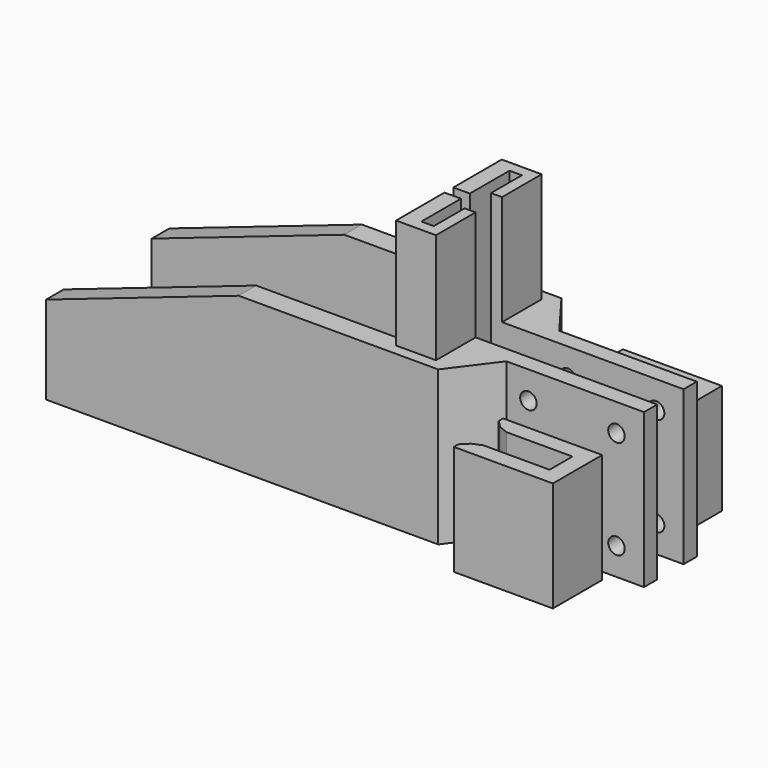
from build123d import *

# Parameters (mm, degrees)
F1_DEPTH  = 3
F3_DEPTH  = 25
F5_R      = 2.6
F6_DEPTH  = 3
F7_R      = 1.5
F8_DEPTH  = 3
F10_DEPTH = 4
F12_DEPTH = 20
F15_DEPTH = 20
F16_SIZE  = 2
F17_SIZE  = 1


with BuildPart() as f1:
    # F0 (on Top) → F1 (new body)
    with BuildSketch(Plane.XY):
        Polygon((0, 0), (0, -7), (-2.25, -7), (-2.25, 2), (-67.25, 2), (-67.25, -11), (-2.25, -11), (4, -11), (10, -3), (35, -3), (35, 0), align=None)
    extrude(amount=F1_DEPTH)

    # F2 (on face) → F3 (join)
    with BuildSketch(Plane.XY.offset(3)):
        Polygon((35, 0), (0, 0), (0, -7), (-2.25, -7), (-2.25, 2), (-5.25, 2), (-5.25, -7), (-67.25, -7), (-67.25, -11), (4, -11), (10, -3), (35, -3), align=None)
    extrude(amount=F3_DEPTH)

    # F5 (on face) → F6 (cut, through all)
    with BuildSketch(Plane.XY.offset(3)):
        with Locations((-17.25, -2.9)):
            Circle(F5_R)
        with Locations((-37.25, -2.9)):
            Circle(F5_R)
        with Locations((-57.25, -2.9)):
            Circle(F5_R)
    extrude(amount=-F6_DEPTH, mode=Mode.SUBTRACT)

    # F7 (on face) → F8 (cut, through all)
    with BuildSketch(Plane.XZ.offset(3)):
        with Locations((30, 5)):
            Circle(F7_R)
        with Locations((14, 5)):
            Circle(F7_R)
        with Locations((14, 23)):
            Circle(F7_R)
        with Locations((30, 23)):
            Circle(F7_R)
        with Locations((22, 14)):
            Circle(F7_R)
    extrude(amount=-F8_DEPTH, mode=Mode.SUBTRACT)

    # F9 (on face) → F10 (cut, through all)
    with BuildSketch(Plane.XZ.offset(11)):
        Polygon((-67.25, 28), (-67.25, 16), (-32.25, 28), align=None)
    extrude(amount=-F10_DEPTH, mode=Mode.SUBTRACT)

    # F11 (on face) → F12 (join)
    with BuildSketch(Plane.XY.offset(28)):
        Polygon((-2.25, -7), (-2.25, 2), (-5.25, 2), (-5.25, -9), (2, -9), (2, 0), (0, 0), (0, -7), align=None)
    extrude(amount=F12_DEPTH)


with BuildPart() as f13_1:
    # F13: instance of F1
    add(f1.part.mirror(Plane.XZ.offset(-3)))


with BuildPart() as f15:
    # F14 (on Top) → F15 (new body)
    with BuildSketch(Plane.XY):
        Polygon((26, 14), (11, 14), (11, 11), (29, 11), (29, 22.2), (11, 22.2), (11, 19.2), (26, 19.2), align=None)
    extrude(amount=F15_DEPTH)

    # F16
    f16_edges = [f15.edges().sort_by_distance(p)[0] for p in [
        (11, 19.2, 10),
        (11, 14, 10),
    ]]
    chamfer(f16_edges, length=F16_SIZE)

    # F17
    f17_edges = [f15.edges().sort_by_distance(p)[0] for p in [
        (13, 14, 10),
        (13, 19.2, 10),
    ]]
    chamfer(f17_edges, length=F17_SIZE)


with BuildPart() as f18_1:
    # F18: instance of F15
    add(f15.part.mirror(Plane.XZ.offset(-3)))


solid = Compound([f1.part, f13_1.part, f15.part, f18_1.part])
